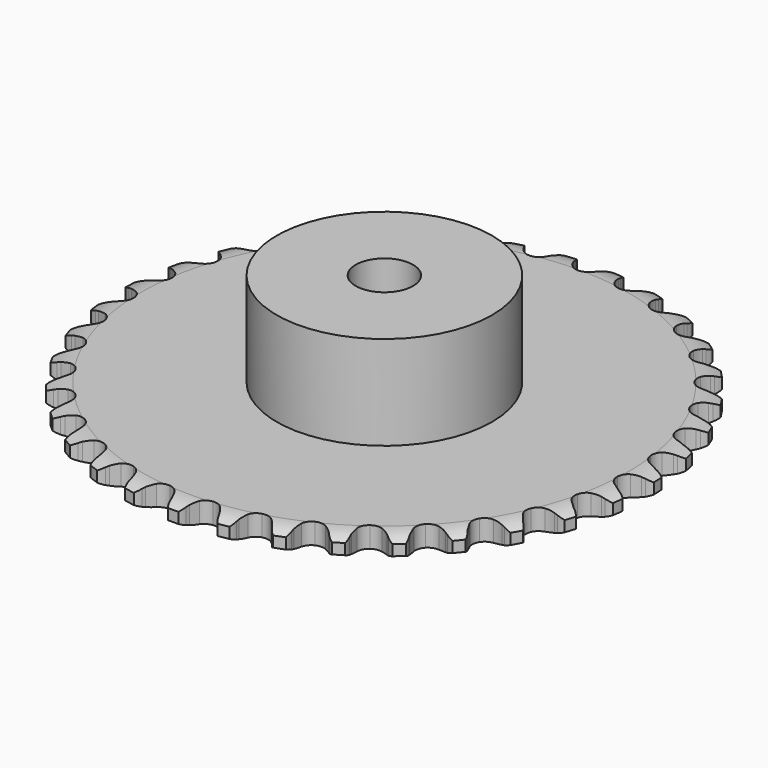
from build123d import *

# Parameters (mm, degrees)
PAD_DEPTH         = 2.9
SKETCH001_R       = 15
PAD001_DEPTH      = 16
SKETCH002_R       = 4
POCKET_DEPTH      = 0.0010001
POCKET_DEPTH_BACK = 16.001


with BuildPart() as part:
    # Sprocket → Pad (new body)
    with BuildSketch(Plane.XY):
        with BuildLine():
            ThreePointArc((-3.3618980823, 37.3537470334), (-2.604893814, 36.7560646711), (-2.1113308701, 35.9274059422))
            Line((-2.1113308701, 35.9274059422), (-1.9503451953, 35.4925383679))
            ThreePointArc((-1.9503451953, 35.4925383679), (-1.6940483117, 34.9279092762), (-1.3598393029, 34.4056081732))
            ThreePointArc((-1.3598393029, 34.4056081732), (-0.7606904787, 33.9034987066), (0, 33.7233786753))
            ThreePointArc((0, 33.7233786753), (0.7606904787, 33.9034987066), (1.3598393029, 34.4056081732))
            ThreePointArc((1.3598393029, 34.4056081732), (1.6940483117, 34.9279092762), (1.9503451953, 35.4925383679))
            Line((1.9503451953, 35.4925383679), (2.1113308701, 35.9274059422))
            ThreePointArc((2.1113308701, 35.9274059422), (2.604893814, 36.7560646711), (3.3618980823, 37.3537470334))
            ThreePointArc((3.3618980823, 37.3537470334), (4.0000166739, 36.630501341), (4.3376851287, 35.7270304322))
            Line((4.3376851287, 35.7270304322), (4.4184350939, 35.2704062565))
            ThreePointArc((4.4184350939, 35.2704062565), (4.5697947638, 34.669087411), (4.8053724332, 34.0955045787))
            ThreePointArc((4.8053724332, 34.0955045787), (5.3052375821, 33.4944820642), (6.0215417784, 33.1814301061))
            ThreePointArc((6.0215417784, 33.1814301061), (6.8021693216, 33.2228290046), (7.481344685, 33.609887212))
            Line((7.481344685, 33.609887212), (8.2564397851, 34.5739110928))
            ThreePointArc((8.2564397851, 34.5739110928), (8.3691243608, 34.7766355605), (8.4924869577, 34.9730450641))
            ThreePointArc((8.4924869577, 34.9730450641), (9.1260808715, 35.7002578396), (9.9776400764, 36.153166869))
            ThreePointArc((9.9776400764, 36.153166869), (10.4763633347, 35.3276035582), (10.6472843585, 34.3783587678))
            Line((10.6472843585, 34.3783587678), (10.6452032436, 33.9146542675))
            ThreePointArc((10.6452032436, 33.9146542675), (10.6867608755, 33.2959725505), (10.8161355454, 32.6895434132))
            ThreePointArc((10.8161355454, 32.6895434132), (11.2006509418, 32.0089252089), (11.8495462495, 31.5730030716))
            ThreePointArc((11.8495462495, 31.5730030716), (12.6250208457, 31.4743502426), (13.3623934931, 31.7339168215))
            Line((13.3623934931, 31.7339168215), (14.2971656068, 32.5440498677))
            ThreePointArc((14.2971656068, 32.5440498677), (14.4442371464, 32.7233958619), (14.6006875267, 32.8946217416))
            ThreePointArc((14.6006875267, 32.8946217416), (15.3539481807, 33.4970153469), (16.2726925089, 33.7905941745))
            ThreePointArc((16.2726925089, 33.7905941745), (16.6159910579, 32.8892475294), (16.6146711084, 31.924738366))
            Line((16.6146711084, 31.924738366), (16.5298258022, 31.4688573852))
            ThreePointArc((16.5298258022, 31.4688573852), (16.4602456996, 30.8526977362), (16.4792591617, 30.2329134253))
            ThreePointArc((16.4792591617, 30.2329134253), (16.7360661644, 29.4945751604), (17.2966965542, 28.94979374))
            ThreePointArc((17.2966965542, 28.94979374), (18.0420938119, 28.7142599667), (18.8139639799, 28.8379922336))
            Line((18.8139639799, 28.8379922336), (19.8783687622, 29.4681961025))
            ThreePointArc((19.8783687622, 29.4681961025), (20.0551002655, 29.6183992953), (20.2396099852, 29.7589382107))
            ThreePointArc((20.2396099852, 29.7589382107), (21.0883269622, 30.2171512195), (22.0447272148, 30.3419639802))
            ThreePointArc((22.0447272148, 30.3419639802), (22.2215671569, 29.3938040236), (22.0480486583, 28.4450306053))
            Line((22.0480486583, 28.4450306053), (21.8831661588, 28.0116255338))
            ThreePointArc((21.8831661588, 28.0116255338), (21.7046846834, 27.417791831), (21.6127258293, 26.8045727242))
            ThreePointArc((21.6127258293, 26.8045727242), (21.7335704499, 26.032245198), (22.1879168, 25.3961142176))
            ThreePointArc((22.1879168, 25.3961142176), (22.8792790379, 25.0312697492), (23.6608381841, 25.0151908473))
            Line((23.6608381841, 25.0151908473), (24.8206647896, 25.445210268))
            ThreePointArc((24.8206647896, 25.445210268), (25.0213759606, 25.5614430053), (25.2280147255, 25.6667779199))
            ThreePointArc((25.2280147255, 25.6667779199), (26.1449095636, 25.9660829891), (27.1082262497, 25.9181180982))
            ThreePointArc((27.1082262497, 25.9181180982), (27.1129238035, 24.9536194712), (26.7727837831, 24.0510761564))
            Line((26.7727837831, 24.0510761564), (26.5331635494, 23.6540769898))
            ThreePointArc((26.5331635494, 23.6540769898), (26.2515172428, 23.1016555369), (26.0515417057, 22.5147110009))
            ThreePointArc((26.0515417057, 22.5147110009), (26.0325398987, 21.7332174555), (26.3659991435, 21.0261826883))
            ThreePointArc((26.3659991435, 21.0261826883), (26.9811054104, 20.5437539262), (27.7472335808, 20.3883806446))
            Line((27.7472335808, 20.3883806446), (28.9652042281, 20.6043944392))
            ThreePointArc((28.9652042281, 20.6043944392), (29.1834440447, 20.6829209051), (29.4055703149, 20.749666268))
            ThreePointArc((29.4055703149, 20.749666268), (30.3611732594, 20.8804434866), (31.3004445881, 20.6612425749))
            ThreePointArc((31.3004445881, 20.6612425749), (31.1328487704, 19.7114050571), (30.6370196084, 18.8841003305))
            Line((30.6370196084, 18.8841003305), (30.330363232, 18.5362669487))
            ThreePointArc((30.330363232, 18.5362669487), (29.9546044381, 18.0430130257), (29.6530395965, 17.5012079408))
            ThreePointArc((29.6530395965, 17.5012079408), (29.4948020956, 16.7356662219), (29.6966565806, 15.9804523469))
            ThreePointArc((29.6966565806, 15.9804523469), (30.215736855, 15.3959449485), (30.9418100598, 15.1062711124))
            Line((30.9418100598, 15.1062711124), (32.1787781701, 15.1013364197))
            ThreePointArc((32.1787781701, 15.1013364197), (32.407532225, 15.139632709), (32.6380066794, 15.1656432694))
            ThreePointArc((32.6380066794, 15.1656432694), (33.6016038655, 15.1236893498), (34.4866408834, 14.7402977152))
            ThreePointArc((34.4866408834, 14.7402977152), (34.1521383617, 13.8356498658), (33.5165564153, 13.1101739821))
            Line((33.5165564153, 13.1101739821), (33.1527200845, 12.8226860362))
            ThreePointArc((33.1527200845, 12.8226860362), (32.6949260001, 12.4044532301), (32.301464396, 11.9252016575))
            ThreePointArc((32.301464396, 11.9252016575), (32.0090770847, 11.2002169058), (32.0728390406, 10.4210971184))
            ThreePointArc((32.0728390406, 10.4210971184), (32.4792096555, 9.7532976324), (33.1418913045, 9.3386335972))
            Line((33.1418913045, 9.3386335972), (34.3580997049, 9.1129090222))
            ThreePointArc((34.3580997049, 9.1129090222), (34.5900156545, 9.1097442607), (34.8214306545, 9.0941840178))
            ThreePointArc((34.8214306545, 9.0941840178), (35.7620512759, 8.8808473936), (36.564408165, 8.3455875586))
            ThreePointArc((36.564408165, 8.3455875586), (36.0737501255, 7.5152055039), (35.3188435214, 6.9148758548))
            Line((35.3188435214, 6.9148758548), (34.9095212352, 6.6969734439))
            ThreePointArc((34.9095212352, 6.6969734439), (34.384405739, 6.3672041012), (33.9116935521, 5.9659095808))
            ThreePointArc((33.9116935521, 5.9659095808), (33.4945539991, 5.3047834027), (33.4181740643, 4.526799254))
            ThreePointArc((33.4181740643, 4.526799254), (33.6987739336, 3.7971713054), (34.2767648934, 3.2708447143))
            Line((34.2767648934, 3.2708447143), (35.4331236453, 2.8315852307))
            ThreePointArc((35.4331236453, 2.8315852307), (35.6607475202, 2.7870611364), (35.8856651973, 2.7304302092))
            ThreePointArc((35.8856651973, 2.7304302092), (36.7730769331, 2.3525676949), (37.4669652829, 1.6826433511))
            ThreePointArc((37.4669652829, 1.6826433511), (36.8359218788, 0.9532162535), (35.9859539364, 0.4973279279))
            Line((35.9859539364, 0.4973279279), (35.5443016498, 0.3560146148))
            ThreePointArc((35.5443016498, 0.3560146148), (34.9687423859, 0.1253077936), (34.4319729748, -0.1851317386))
            ThreePointArc((34.4319729748, -0.1851317386), (33.9034883886, -0.7611502037), (33.689421477, -1.5129936631))
            ThreePointArc((33.689421477, -1.5129936631), (33.8352318901, -2.2809992318), (34.3099550556, -2.902071809))
            Line((34.3099550556, -2.902071809), (35.3692978372, -3.54074804))
            ThreePointArc((35.3692978372, -3.54074804), (35.5853136188, -3.6252004261), (35.7965049338, -3.721081873))
            ThreePointArc((35.7965049338, -3.721081873), (36.6021856407, -4.2513254651), (37.1653033086, -5.0343823983))
            ThreePointArc((37.1653033086, -5.0343823983), (36.4141567941, -5.6394101516), (35.4964461825, -5.9362045277))
            Line((35.4964461825, -5.9362045277), (35.0366589635, -5.9963868169))
            ThreePointArc((35.0366589635, -5.9963868169), (34.42915488, -6.1206160097), (33.8455804554, -6.3302227715))
            ThreePointArc((33.8455804554, -6.3302227715), (33.2227367654, -6.8026198163), (32.8778631636, -7.504157719))
            ThreePointArc((32.8778631636, -7.504157719), (32.8841976539, -8.2858565768), (33.2403950319, -8.9817133565))
            Line((33.2403950319, -8.9817133565), (34.1686736947, -9.7992787554))
            ThreePointArc((34.1686736947, -9.7992787554), (34.366138458, -9.920945064), (34.5568155482, -10.052995322))
            ThreePointArc((34.5568155482, -10.052995322), (35.2548699854, -10.7185775267), (35.6691179063, -11.589598955))
            ThreePointArc((35.6691179063, -11.589598955), (34.8220107485, -12.0507812743), (33.8660534417, -12.1789424855))
            Line((33.8660534417, -12.1789424855), (33.4029092298, -12.1560594424))
            ThreePointArc((33.4029092298, -12.1560594424), (32.782986008, -12.1698181783), (32.1713631319, -12.2718552361))
            ThreePointArc((32.1713631319, -12.2718552361), (31.4741790468, -12.6254476308), (31.0095832762, -13.2541319713))
            ThreePointArc((31.0095832762, -13.2541319713), (30.8762382479, -14.0243996738), (31.1024613617, -14.7726752466))
            Line((31.1024613617, -14.7726752466), (31.8698402656, -15.7428525886))
            ThreePointArc((31.8698402656, -15.7428525886), (32.0424073306, -15.8978223646), (32.2064416775, -16.0617972298))
            ThreePointArc((32.2064416775, -16.0617972298), (32.774433801, -16.8413256874), (33.0264977059, -17.7723162654))
            ThreePointArc((33.0264977059, -17.7723162654), (32.1106566257, -18.0748303714), (31.1471778782, -18.030239211))
            Line((31.1471778782, -18.030239211), (30.6955625094, -17.9250263155))
            ThreePointArc((30.6955625094, -17.9250263155), (30.0831449917, -17.8278723773), (29.4631317266, -17.8190601761))
            ThreePointArc((29.4631317266, -17.8190601761), (28.7140153166, -18.0424831702), (28.1446298675, -18.5781075166))
            ThreePointArc((28.1446298675, -18.5781075166), (27.8758911395, -19.312187026), (27.9648689921, -20.0888311992))
            Line((27.9648689921, -20.0888311992), (28.5466839477, -21.1804381865))
            ThreePointArc((28.5466839477, -21.1804381865), (28.688806867, -21.3637305736), (28.8209262717, -21.5543597589))
            ThreePointArc((28.8209262717, -21.5543597589), (29.2406003474, -22.4227797833), (29.3223786949, -23.3838167079))
            ThreePointArc((29.3223786949, -23.3838167079), (28.3672395782, -23.5179395483), (27.4272063897, -23.3020292129))
            Line((27.4272063897, -23.3020292129), (27.0016351536, -23.117868094))
            ThreePointArc((27.0016351536, -23.117868094), (26.4164069429, -22.9129240893), (25.8079310253, -22.7935458604))
            ThreePointArc((25.8079310253, -22.7935458604), (25.0309595082, -22.8796184551), (24.3750848974, -23.3049674001))
            ThreePointArc((24.3750848974, -23.3049674001), (23.9795899536, -23.9792647971), (23.9284627236, -24.759315588))
            Line((23.9284627236, -24.759315588), (24.3060137195, -25.9372670736))
            ThreePointArc((24.3060137195, -25.9372670736), (24.4131245455, -26.1429909039), (24.5090825816, -26.3541474304))
            ThreePointArc((24.5090825816, -26.3541474304), (24.7669499393, -27.2835472875), (24.6758143061, -28.2437420411))
            ThreePointArc((24.6758143061, -28.2437420411), (23.7120761101, -28.2051627975), (22.8257019206, -27.8248728229))
            Line((22.8257019206, -27.8248728229), (22.439853027, -27.5676825705))
            ThreePointArc((22.439853027, -27.5676825705), (21.9006238394, -27.2615355682), (21.3232421861, -27.0354282262))
            ThreePointArc((21.3232421861, -27.0354282262), (20.5433880656, -26.9813839774), (19.8221046428, -27.2827864561))
            ThreePointArc((19.8221046428, -27.2827864561), (19.3125650161, -27.8756292673), (19.1229759747, -28.6340152017))
            Line((19.1229759747, -28.6340152017), (19.2841282112, -29.8604508558))
            ThreePointArc((19.2841282112, -29.8604508558), (19.3527843139, -30.081993996), (19.4094968112, -30.3068911192))
            ThreePointArc((19.4094968112, -30.3068911192), (19.4972693819, -31.2673991329), (19.2361489422, -32.1958902661))
            ThreePointArc((19.2361489422, -32.1958902661), (18.2947870054, -31.9858489072), (17.4905606108, -31.453402126))
            Line((17.4905606108, -31.453402126), (17.1568355605, -31.1314490465))
            ThreePointArc((17.1568355605, -31.1314490465), (16.6809366659, -30.7339388631), (16.1532067981, -30.408369684))
            ThreePointArc((16.1532067981, -30.408369684), (15.3955352274, -30.2159456184), (14.6320256353, -30.3837143069))
            ThreePointArc((14.6320256353, -30.3837143069), (14.0248183485, -30.8760480768), (13.7028610435, -31.5883940067))
            Line((13.7028610435, -31.5883940067), (13.6424349553, -32.8238951782))
            ThreePointArc((13.6424349553, -32.8238951782), (13.6704296709, -33.0541370495), (13.6860738431, -33.2855463909))
            ThreePointArc((13.6860738431, -33.2855463909), (13.6009305441, -34.2462910433), (13.1782179237, -35.1132360871))
            ThreePointArc((13.1782179237, -35.1132360871), (12.2894883933, -34.7384835149), (11.5932582917, -34.0709932048))
            Line((11.5932582917, -34.0709932048), (11.3223832823, -33.694625135))
            ThreePointArc((11.3223832823, -33.694625135), (10.9251104628, -33.218528075), (10.4639940527, -32.80396112))
            ThreePointArc((10.4639940527, -32.80396112), (9.7528572195, -32.4793419054), (8.9716612846, -32.5080845802))
            ThreePointArc((8.9716612846, -32.5080845802), (8.2863024796, -32.8840852962), (7.8423248837, -33.5274958373))
            Line((7.8423248837, -33.5274958373), (7.5622626148, -34.732352502))
            ThreePointArc((7.5622626148, -34.732352502), (7.5486961703, -34.9638929412), (7.5227692008, -35.1943768141))
            ThreePointArc((7.5227692008, -35.1943768141), (7.2674466077, -36.1244789816), (6.6967281381, -36.902013609))
            ThreePointArc((6.6967281381, -36.902013609), (5.8891955125, -36.3745946795), (5.3233391121, -35.5935145283))
            Line((5.3233391121, -35.5935145283), (5.1240202894, -35.1748282477))
            ThreePointArc((5.1240202894, -35.1748282477), (4.8181422202, -34.6354464622), (4.4384599287, -34.1452062545))
            ThreePointArc((4.4384599287, -34.1452062545), (3.796714356, -33.6988254194), (3.0229403583, -33.5876182673))
            ThreePointArc((3.0229403583, -33.5876182673), (2.281458031, -33.835200957), (1.7297299494, -34.3889963651))
            Line((1.7297299494, -34.3889963651), (1.2390329316, -35.5244834385))
            ThreePointArc((1.2390329316, -35.5244834385), (1.1843413636, -35.7498805454), (1.1176765666, -35.9720310084))
            ThreePointArc((1.1176765666, -35.9720310084), (0.7003809578, -36.8415964421), (0, -37.5047300504))
            ThreePointArc((0, -37.5047300504), (-0.7003809578, -36.8415964421), (-1.1176765666, -35.9720310084))
            Line((-1.1176765666, -35.9720310084), (-1.2390329316, -35.5244834385))
            ThreePointArc((-1.2390329316, -35.5244834385), (-1.4436850778, -34.939153102), (-1.7297299494, -34.3889963651))
            ThreePointArc((-1.7297299494, -34.3889963651), (-2.281458031, -33.835200957), (-3.0229403583, -33.5876182673))
            ThreePointArc((-3.0229403583, -33.5876182673), (-3.796714356, -33.6988254194), (-4.4384599287, -34.1452062545))
            Line((-4.4384599287, -34.1452062545), (-5.1240202894, -35.1748282477))
            ThreePointArc((-5.1240202894, -35.1748282477), (-5.2180791489, -35.3868375738), (-5.3233391121, -35.5935145283))
            ThreePointArc((-5.3233391121, -35.5935145283), (-5.8891955125, -36.3745946795), (-6.6967281381, -36.902013609))
            ThreePointArc((-6.6967281381, -36.902013609), (-7.2674466077, -36.1244789816), (-7.5227692008, -35.1943768141))
            Line((-7.5227692008, -35.1943768141), (-7.5622626148, -34.732352502))
            ThreePointArc((-7.5622626148, -34.732352502), (-7.6591111494, -34.1198866131), (-7.8423248837, -33.5274958373))
            ThreePointArc((-7.8423248837, -33.5274958373), (-8.2863024796, -32.8840852962), (-8.9716612846, -32.5080845802))
            ThreePointArc((-8.9716612846, -32.5080845802), (-9.7528572195, -32.4793419054), (-10.4639940527, -32.80396112))
            Line((-10.4639940527, -32.80396112), (-11.3223832823, -33.694625135))
            ThreePointArc((-11.3223832823, -33.694625135), (-11.4527863042, -33.8864325261), (-11.5932582917, -34.0709932048))
            ThreePointArc((-11.5932582917, -34.0709932048), (-12.2894883933, -34.7384835149), (-13.1782179237, -35.1132360871))
            ThreePointArc((-13.1782179237, -35.1132360871), (-13.6009305441, -34.2462910433), (-13.6860738431, -33.2855463909))
            Line((-13.6860738431, -33.2855463909), (-13.6424349553, -32.8238951782))
            ThreePointArc((-13.6424349553, -32.8238951782), (-13.6283670868, -32.2039788945), (-13.7028610435, -31.5883940067))
            ThreePointArc((-13.7028610435, -31.5883940067), (-14.0248183485, -30.8760480768), (-14.6320256353, -30.3837143069))
            ThreePointArc((-14.6320256353, -30.3837143069), (-15.3955352274, -30.2159456184), (-16.1532067981, -30.408369684))
            Line((-16.1532067981, -30.408369684), (-17.1568355605, -31.1314490465))
            ThreePointArc((-17.1568355605, -31.1314490465), (-17.3193914843, -31.2968896552), (-17.4905606108, -31.453402126))
            ThreePointArc((-17.4905606108, -31.453402126), (-18.2947870054, -31.9858489072), (-19.2361489422, -32.1958902661))
            ThreePointArc((-19.2361489422, -32.1958902661), (-19.4972693819, -31.2673991329), (-19.4094968112, -30.3068911192))
            Line((-19.4094968112, -30.3068911192), (-19.2841282112, -29.8604508558))
            ThreePointArc((-19.2841282112, -29.8604508558), (-19.1595960926, -29.2530087967), (-19.1229759747, -28.6340152017))
            ThreePointArc((-19.1229759747, -28.6340152017), (-19.3125650161, -27.8756292673), (-19.8221046428, -27.2827864561))
            ThreePointArc((-19.8221046428, -27.2827864561), (-20.5433880656, -26.9813839774), (-21.3232421861, -27.0354282262))
            Line((-21.3232421861, -27.0354282262), (-22.439853027, -27.5676825705))
            ThreePointArc((-22.439853027, -27.5676825705), (-22.6293371716, -27.7014389996), (-22.8257019206, -27.8248728229))
            ThreePointArc((-22.8257019206, -27.8248728229), (-23.7120761101, -28.2051627975), (-24.6758143061, -28.2437420411))
            ThreePointArc((-24.6758143061, -28.2437420411), (-24.7669499393, -27.2835472875), (-24.5090825816, -26.3541474304))
            Line((-24.5090825816, -26.3541474304), (-24.3060137195, -25.9372670736))
            ThreePointArc((-24.3060137195, -25.9372670736), (-24.0750199153, -25.3618229268), (-23.9284627236, -24.759315588))
            ThreePointArc((-23.9284627236, -24.759315588), (-23.9795899536, -23.9792647971), (-24.3750848974, -23.3049674001))
            ThreePointArc((-24.3750848974, -23.3049674001), (-25.0309595082, -22.8796184551), (-25.8079310253, -22.7935458604))
            Line((-25.8079310253, -22.7935458604), (-27.0016351536, -23.117868094))
            ThreePointArc((-27.0016351536, -23.117868094), (-27.2119573427, -23.2156413018), (-27.4272063897, -23.3020292129))
            ThreePointArc((-27.4272063897, -23.3020292129), (-28.3672395782, -23.5179395483), (-29.3223786949, -23.3838167079))
            ThreePointArc((-29.3223786949, -23.3838167079), (-29.2406003474, -22.4227797833), (-28.8209262717, -21.5543597589))
            Line((-28.8209262717, -21.5543597589), (-28.5466839477, -21.1804381865))
            ThreePointArc((-28.5466839477, -21.1804381865), (-28.216652789, -20.6554872001), (-27.9648689921, -20.0888311992))
            ThreePointArc((-27.9648689921, -20.0888311992), (-27.8758911395, -19.312187026), (-28.1446298675, -18.5781075166))
            ThreePointArc((-28.1446298675, -18.5781075166), (-28.7140153166, -18.0424831702), (-29.4631317266, -17.8190601761))
            Line((-29.4631317266, -17.8190601761), (-30.6955625094, -17.9250263155))
            ThreePointArc((-30.6955625094, -17.9250263155), (-30.9199628148, -17.9836737906), (-31.1471778782, -18.030239211))
            ThreePointArc((-31.1471778782, -18.030239211), (-32.1106566257, -18.0748303714), (-33.0264977059, -17.7723162654))
            ThreePointArc((-33.0264977059, -17.7723162654), (-32.774433801, -16.8413256874), (-32.2064416775, -16.0617972298))
            Line((-32.2064416775, -16.0617972298), (-31.8698402656, -15.7428525886))
            ThreePointArc((-31.8698402656, -15.7428525886), (-31.4513792253, -15.2852671195), (-31.1024613617, -14.7726752466))
            ThreePointArc((-31.1024613617, -14.7726752466), (-30.8762382479, -14.0243996738), (-31.0095832762, -13.2541319713))
            ThreePointArc((-31.0095832762, -13.2541319713), (-31.4741790468, -12.6254476308), (-32.1713631319, -12.2718552361))
            Line((-32.1713631319, -12.2718552361), (-33.4029092298, -12.1560594424))
            ThreePointArc((-33.4029092298, -12.1560594424), (-33.634175241, -12.1736962068), (-33.8660534417, -12.1789424855))
            ThreePointArc((-33.8660534417, -12.1789424855), (-34.8220107485, -12.0507812743), (-35.6691179063, -11.589598955))
            ThreePointArc((-35.6691179063, -11.589598955), (-35.2548699854, -10.7185775267), (-34.5568155482, -10.052995322))
            Line((-34.5568155482, -10.052995322), (-34.1686736947, -9.7992787554))
            ThreePointArc((-34.1686736947, -9.7992787554), (-33.6752324551, -9.4237659769), (-33.2403950319, -8.9817133565))
            ThreePointArc((-33.2403950319, -8.9817133565), (-32.8841976539, -8.2858565768), (-32.8778631636, -7.504157719))
            ThreePointArc((-32.8778631636, -7.504157719), (-33.2227367654, -6.8026198163), (-33.8455804554, -6.3302227715))
            Line((-33.8455804554, -6.3302227715), (-35.0366589635, -5.9963868169))
            ThreePointArc((-35.0366589635, -5.9963868169), (-35.2673576006, -5.9724460103), (-35.4964461825, -5.9362045277))
            ThreePointArc((-35.4964461825, -5.9362045277), (-36.4141567941, -5.6394101516), (-37.1653033086, -5.0343823983))
            ThreePointArc((-37.1653033086, -5.0343823983), (-36.6021856407, -4.2513254651), (-35.7965049338, -3.721081873))
            Line((-35.7965049338, -3.721081873), (-35.3692978372, -3.54074804))
            ThreePointArc((-35.3692978372, -3.54074804), (-34.8167360056, -3.2593772419), (-34.3099550556, -2.902071809))
            ThreePointArc((-34.3099550556, -2.902071809), (-33.8352318901, -2.2809992318), (-33.689421477, -1.5129936631))
            ThreePointArc((-33.689421477, -1.5129936631), (-33.9034883886, -0.7611502037), (-34.4319729748, -0.1851317386))
            Line((-34.4319729748, -0.1851317386), (-35.5443016498, 0.3560146148))
            ThreePointArc((-35.5443016498, 0.3560146148), (-35.7670180689, 0.420763515), (-35.9859539364, 0.4973279279))
            ThreePointArc((-35.9859539364, 0.4973279279), (-36.8359218788, 0.9532162535), (-37.4669652829, 1.6826433511))
            ThreePointArc((-37.4669652829, 1.6826433511), (-36.7730769331, 2.3525676949), (-35.8856651973, 2.7304302092))
            Line((-35.8856651973, 2.7304302092), (-35.4331236453, 2.8315852307))
            ThreePointArc((-35.4331236453, 2.8315852307), (-34.8392010137, 3.0097705595), (-34.2767648934, 3.2708447143))
            ThreePointArc((-34.2767648934, 3.2708447143), (-33.6987739336, 3.7971713054), (-33.4181740643, 4.526799254))
            ThreePointArc((-33.4181740643, 4.526799254), (-33.4945539991, 5.3047834027), (-33.9116935521, 5.9659095808))
            Line((-33.9116935521, 5.9659095808), (-34.9095212352, 6.6969734439))
            ThreePointArc((-34.9095212352, 6.6969734439), (-35.1170971472, 6.8004493548), (-35.3188435214, 6.9148758548))
            ThreePointArc((-35.3188435214, 6.9148758548), (-36.0737501255, 7.5152055039), (-36.564408165, 8.3455875586))
            ThreePointArc((-36.564408165, 8.3455875586), (-35.7620512759, 8.8808473936), (-34.8214306545, 9.0941840178))
            Line((-34.8214306545, 9.0941840178), (-34.3580997049, 9.1129090222))
            ThreePointArc((-34.3580997049, 9.1129090222), (-33.7419054353, 9.1821818586), (-33.1418913045, 9.3386335972))
            ThreePointArc((-33.1418913045, 9.3386335972), (-32.4792096555, 9.7532976324), (-32.0728390406, 10.4210971184))
            ThreePointArc((-32.0728390406, 10.4210971184), (-32.0090770847, 11.2002169058), (-32.301464396, 11.9252016575))
            Line((-32.301464396, 11.9252016575), (-33.1527200845, 12.8226860362))
            ThreePointArc((-33.1527200845, 12.8226860362), (-33.3384838288, 12.9615631569), (-33.5165564153, 13.1101739821))
            ThreePointArc((-33.5165564153, 13.1101739821), (-34.1521383617, 13.8356498658), (-34.4866408834, 14.7402977152))
            ThreePointArc((-34.4866408834, 14.7402977152), (-33.6016038655, 15.1236893498), (-32.6380066794, 15.1656432694))
            Line((-32.6380066794, 15.1656432694), (-32.1787781701, 15.1013364197))
            ThreePointArc((-32.1787781701, 15.1013364197), (-31.5601172534, 15.0594702777), (-30.9418100598, 15.1062711124))
            ThreePointArc((-30.9418100598, 15.1062711124), (-30.215736855, 15.3959449485), (-29.6966565806, 15.9804523469))
            ThreePointArc((-29.6966565806, 15.9804523469), (-29.4948020956, 16.7356662219), (-29.6530395965, 17.5012079408))
            Line((-29.6530395965, 17.5012079408), (-30.330363232, 18.5362669487))
            ThreePointArc((-30.330363232, 18.5362669487), (-30.4883442092, 18.7060816544), (-30.6370196084, 18.8841003305))
            ThreePointArc((-30.6370196084, 18.8841003305), (-31.1328487704, 19.7114050571), (-31.3004445881, 20.6612425749))
            ThreePointArc((-31.3004445881, 20.6612425749), (-30.3611732594, 20.8804434866), (-29.4055703149, 20.749666268))
            Line((-29.4055703149, 20.749666268), (-28.9652042281, 20.6043944392))
            ThreePointArc((-28.9652042281, 20.6043944392), (-28.3639609351, 20.4527349311), (-27.7472335808, 20.3883806446))
            ThreePointArc((-27.7472335808, 20.3883806446), (-26.9811054104, 20.5437539262), (-26.3659991435, 21.0261826883))
            ThreePointArc((-26.3659991435, 21.0261826883), (-26.0325398987, 21.7332174555), (-26.0515417057, 22.5147110009))
            Line((-26.0515417057, 22.5147110009), (-26.5331635494, 23.6540769898))
            ThreePointArc((-26.5331635494, 23.6540769898), (-26.6582841207, 23.849371296), (-26.7727837831, 24.0510761564))
            ThreePointArc((-26.7727837831, 24.0510761564), (-27.1129238035, 24.9536194712), (-27.1082262497, 25.9181180982))
            ThreePointArc((-27.1082262497, 25.9181180982), (-26.1449095636, 25.9660829891), (-25.2280147255, 25.6667779199))
            Line((-25.2280147255, 25.6667779199), (-24.8206647896, 25.445210268))
            ThreePointArc((-24.8206647896, 25.445210268), (-24.2561635745, 25.1886318552), (-23.6608381841, 25.0151908473))
            ThreePointArc((-23.6608381841, 25.0151908473), (-22.8792790379, 25.0312697492), (-22.1879168, 25.3961142176))
            ThreePointArc((-22.1879168, 25.3961142176), (-21.7335704499, 26.032245198), (-21.6127258293, 26.8045727242))
            Line((-21.6127258293, 26.8045727242), (-21.8831661588, 28.0116255338))
            ThreePointArc((-21.8831661588, 28.0116255338), (-21.9714048461, 28.2261225209), (-22.0480486583, 28.4450306053))
            ThreePointArc((-22.0480486583, 28.4450306053), (-22.2215671569, 29.3938040236), (-22.0447272148, 30.3419639802))
            ThreePointArc((-22.0447272148, 30.3419639802), (-21.0883269622, 30.2171512195), (-20.2396099852, 29.7589382107))
            Line((-20.2396099852, 29.7589382107), (-19.8783687622, 29.4681961025))
            ThreePointArc((-19.8783687622, 29.4681961025), (-19.3687531585, 29.1149454263), (-18.8139639799, 28.8379922336))
            ThreePointArc((-18.8139639799, 28.8379922336), (-18.0420938119, 28.7142599667), (-17.2966965542, 28.94979374))
            ThreePointArc((-17.2966965542, 28.94979374), (-16.7360661644, 29.4945751604), (-16.4792591617, 30.2329134253))
            Line((-16.4792591617, 30.2329134253), (-16.5298258022, 31.4688573852))
            ThreePointArc((-16.5298258022, 31.4688573852), (-16.5783465416, 31.6956629434), (-16.6146711084, 31.924738366))
            ThreePointArc((-16.6146711084, 31.924738366), (-16.6159910579, 32.8892475294), (-16.2726925089, 33.7905941745))
            ThreePointArc((-16.2726925089, 33.7905941745), (-15.3539481807, 33.4970153469), (-14.6006875267, 32.8946217416))
            Line((-14.6006875267, 32.8946217416), (-14.2971656068, 32.5440498677))
            ThreePointArc((-14.2971656068, 32.5440498677), (-13.8588150794, 32.1054806955), (-13.3623934931, 31.7339168215))
            ThreePointArc((-13.3623934931, 31.7339168215), (-12.6250208457, 31.4743502426), (-11.8495462495, 31.5730030716))
            ThreePointArc((-11.8495462495, 31.5730030716), (-11.2006509418, 32.0089252089), (-10.8161355454, 32.6895434132))
            Line((-10.8161355454, 32.6895434132), (-10.6452032436, 33.9146542675))
            ThreePointArc((-10.6452032436, 33.9146542675), (-10.6524465386, 34.1464786796), (-10.6472843585, 34.3783587678))
            ThreePointArc((-10.6472843585, 34.3783587678), (-10.4763633347, 35.3276035582), (-9.9776400764, 36.153166869))
            ThreePointArc((-9.9776400764, 36.153166869), (-9.1260808715, 35.7002578396), (-8.4924869577, 34.9730450641))
            Line((-8.4924869577, 34.9730450641), (-8.2564397851, 34.5739110928))
            ThreePointArc((-8.2564397851, 34.5739110928), (-7.9034432805, 34.0641193986), (-7.481344685, 33.609887212))
            ThreePointArc((-7.481344685, 33.609887212), (-6.8021693216, 33.2228290046), (-6.0215417784, 33.1814301061))
            ThreePointArc((-6.0215417784, 33.1814301061), (-5.3052375821, 33.4944820642), (-4.8053724332, 34.0955045787))
            Line((-4.8053724332, 34.0955045787), (-4.4184350939, 35.2704062565))
            ThreePointArc((-4.4184350939, 35.2704062565), (-4.384168139, 35.4997984953), (-4.3376851287, 35.7270304322))
            ThreePointArc((-4.3376851287, 35.7270304322), (-4.0000166739, 36.630501341), (-3.3618980823, 37.3537470334))
        make_face()
    extrude(amount=PAD_DEPTH)

    # Sketch → Groove (revolve, cut)
    with BuildSketch(Plane.XZ):
        with BuildLine():
            Line((33.8896735578, 0), (36.8, 0))
            Line((39.7103264422, 0), (36.8, 0))
            Line((39.7103264422, 2.9), (39.7103264422, 0))
            Line((36.8, 2.9), (39.7103264422, 2.9))
            Line((33.8896735578, 2.9), (36.8, 2.9))
            ThreePointArc((36.8, 2.2), (35.3863365125, 2.7225396744), (33.8896735578, 2.9))
            Line((36.8, 0.7), (36.8, 2.2))
            ThreePointArc((33.8896735578, 0), (35.3863365125, 0.1774603256), (36.8, 0.7))
        make_face()
    revolve(axis=Axis((0, 0, 0), (0, 0, 1)), mode=Mode.SUBTRACT)

    # Sketch001 → Pad001 (join)
    with BuildSketch(Plane.XY):
        Circle(SKETCH001_R)
    extrude(amount=PAD001_DEPTH)

    # Sketch002 → Pocket (cut, two sides)
    with BuildSketch(Plane.XY) as pocket_sk:
        Circle(SKETCH002_R)
    extrude(amount=-POCKET_DEPTH, mode=Mode.SUBTRACT)
    extrude(pocket_sk.sketch, amount=POCKET_DEPTH_BACK, mode=Mode.SUBTRACT)


solid = part.part
